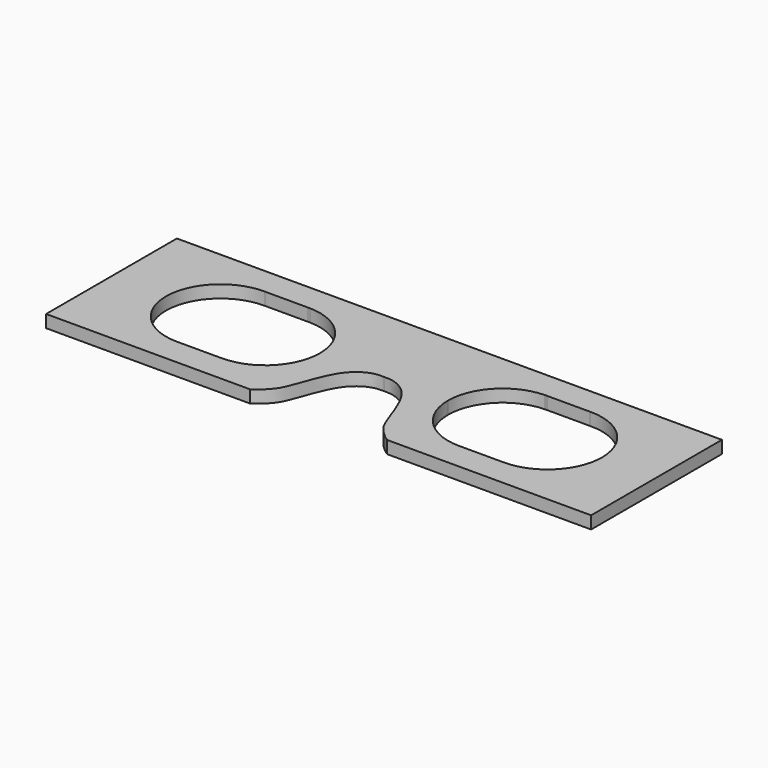
from build123d import *

# Parameters (mm, degrees)
F1_DEPTH = 2.921


with BuildPart() as f1:
    # F0 (on Top) → F1 (new body)
    with BuildSketch(Plane.XY):
        with BuildLine():
            Line((-38.1, 0), (-15.9683506936, 0))
            add(Edge.make_bspline(
                [(0, 19.05), (-0.9461852183, 19.0722579681), (-2.7800145443, 18.9932101914), (-7.6966133499, 16.179732516), (-10.7839857432, 6.5059803736), (-12.4008436704, 2.8914298405), (-14.8871421587, 0.6784534159), (-15.9683506936, 0)],
                knots=[0, 0, 0, 0, 0.1454686116, 0.3495150586, 0.631568568, 0.8149171416, 1, 1, 1, 1], degree=3))
            Line((0, 19.05), (0, 38.1))
            Line((0, 38.1), (-63.5, 38.1))
            Line((-63.5, 38.1), (-63.5, 0))
            Line((-63.5, 0), (-38.1, 0))
        make_face()
        with BuildLine():
            Line((-27.6282575751, 6.35), (-38.1, 6.35))
            ThreePointArc((-38.1, 6.35), (-50.799421792, 19.1711864189), (-37.8576381969, 31.7476872208))
            Line((-37.8576381969, 31.7476872208), (-27.8706193782, 31.7476872208))
            ThreePointArc((-27.8706193782, 31.7476872208), (-27.6282575751, 31.75), (-27.385895772, 31.7476872208))
            ThreePointArc((-27.385895772, 31.7476872208), (-18.5627185702, 27.9441555277), (-14.9282575751, 19.05))
            ThreePointArc((-14.9282575751, 19.05), (-18.648001454, 10.0697438789), (-27.6282575751, 6.35))
        make_face(mode=Mode.SUBTRACT)
        with BuildLine():
            Line((-38.1, 0), (-15.9683506936, 0))
            add(Edge.make_bspline(
                [(0, 19.05), (-0.9461852183, 19.0722579681), (-2.7800145443, 18.9932101914), (-7.6966133499, 16.179732516), (-10.7839857432, 6.5059803736), (-12.4008436704, 2.8914298405), (-14.8871421587, 0.6784534159), (-15.9683506936, 0)],
                knots=[0, 0, 0, 0, 0.1454686116, 0.3495150586, 0.631568568, 0.8149171416, 1, 1, 1, 1], degree=3))
            Line((0, 19.05), (0, 38.1))
            Line((0, 38.1), (-63.5, 38.1))
            Line((-63.5, 38.1), (-63.5, 0))
            Line((-63.5, 0), (-38.1, 0))
        make_face()
        with BuildLine():
            Line((-27.6282575751, 6.35), (-38.1, 6.35))
            ThreePointArc((-38.1, 6.35), (-50.799421792, 19.1711864189), (-37.8576381969, 31.7476872208))
            Line((-37.8576381969, 31.7476872208), (-27.8706193782, 31.7476872208))
            ThreePointArc((-27.8706193782, 31.7476872208), (-27.6282575751, 31.75), (-27.385895772, 31.7476872208))
            ThreePointArc((-27.385895772, 31.7476872208), (-18.5627185702, 27.9441555277), (-14.9282575751, 19.05))
            ThreePointArc((-14.9282575751, 19.05), (-18.648001454, 10.0697438789), (-27.6282575751, 6.35))
        make_face(mode=Mode.SUBTRACT)
        with BuildLine():
            Line((-38.1, 0), (-15.9683506936, 0))
            add(Edge.make_bspline(
                [(0, 19.05), (-0.9461852183, 19.0722579681), (-2.7800145443, 18.9932101914), (-7.6966133499, 16.179732516), (-10.7839857432, 6.5059803736), (-12.4008436704, 2.8914298405), (-14.8871421587, 0.6784534159), (-15.9683506936, 0)],
                knots=[0, 0, 0, 0, 0.1454686116, 0.3495150586, 0.631568568, 0.8149171416, 1, 1, 1, 1], degree=3))
            Line((0, 19.05), (0, 38.1))
            Line((0, 38.1), (-63.5, 38.1))
            Line((-63.5, 38.1), (-63.5, 0))
            Line((-63.5, 0), (-38.1, 0))
        make_face()
        with BuildLine():
            Line((-27.6282575751, 6.35), (-38.1, 6.35))
            ThreePointArc((-38.1, 6.35), (-50.799421792, 19.1711864189), (-37.8576381969, 31.7476872208))
            Line((-37.8576381969, 31.7476872208), (-27.8706193782, 31.7476872208))
            ThreePointArc((-27.8706193782, 31.7476872208), (-27.6282575751, 31.75), (-27.385895772, 31.7476872208))
            ThreePointArc((-27.385895772, 31.7476872208), (-18.5627185702, 27.9441555277), (-14.9282575751, 19.05))
            ThreePointArc((-14.9282575751, 19.05), (-18.648001454, 10.0697438789), (-27.6282575751, 6.35))
        make_face(mode=Mode.SUBTRACT)
        with BuildLine():
            Line((-38.1, 0), (-15.9683506936, 0))
            add(Edge.make_bspline(
                [(0, 19.05), (-0.9461852183, 19.0722579681), (-2.7800145443, 18.9932101914), (-7.6966133499, 16.179732516), (-10.7839857432, 6.5059803736), (-12.4008436704, 2.8914298405), (-14.8871421587, 0.6784534159), (-15.9683506936, 0)],
                knots=[0, 0, 0, 0, 0.1454686116, 0.3495150586, 0.631568568, 0.8149171416, 1, 1, 1, 1], degree=3))
            Line((0, 19.05), (0, 38.1))
            Line((0, 38.1), (-63.5, 38.1))
            Line((-63.5, 38.1), (-63.5, 0))
            Line((-63.5, 0), (-38.1, 0))
        make_face()
        with BuildLine():
            Line((-27.6282575751, 6.35), (-38.1, 6.35))
            ThreePointArc((-38.1, 6.35), (-50.799421792, 19.1711864189), (-37.8576381969, 31.7476872208))
            Line((-37.8576381969, 31.7476872208), (-27.8706193782, 31.7476872208))
            ThreePointArc((-27.8706193782, 31.7476872208), (-27.6282575751, 31.75), (-27.385895772, 31.7476872208))
            ThreePointArc((-27.385895772, 31.7476872208), (-18.5627185702, 27.9441555277), (-14.9282575751, 19.05))
            ThreePointArc((-14.9282575751, 19.05), (-18.648001454, 10.0697438789), (-27.6282575751, 6.35))
        make_face(mode=Mode.SUBTRACT)
    extrude(amount=F1_DEPTH)

    # F2: F1 across plane


with BuildPart() as f1_1:
    add(f1.part)
    add(f1.part.mirror(Plane.YZ))


solid = f1_1.part
